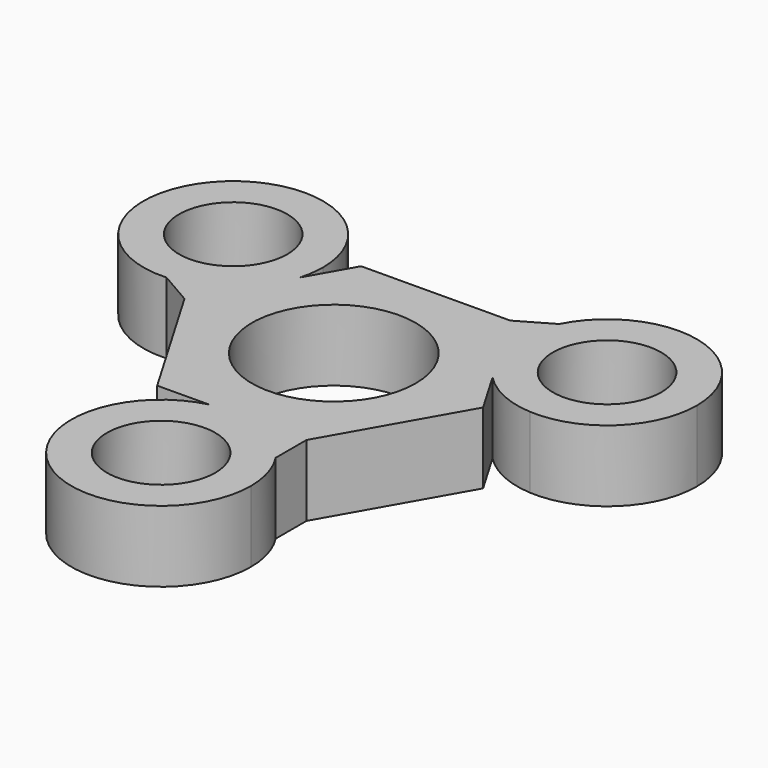
from build123d import *

# Parameters (mm, degrees)
F0_R     = 11.5
F0_R_2   = 7.6
F1_DEPTH = 10


with BuildPart() as f1:
    # F0 (on Top) → F1 (new body)
    with BuildSketch(Plane.XY):
        with BuildLine():
            Line((-20.8363977524, -0.1467132694), (-10.2911414579, -18.1182064116))
            Line((-10.2911414579, -18.1182064116), (-3.0747169622, -18.0673941146))
            ThreePointArc((-3.0747169622, -18.0673941146), (-0.0887658222, -17.6870110989), (2.9022456956, -18.0253091178))
            Line((2.9022456956, -18.0253091178), (10.5452562945, -17.9714931422))
            Line((10.5452562945, -17.9714931422), (20.8363977524, 0.1467132694))
            Line((20.8363977524, 0.1467132694), (17.1841807645, 6.3709140586))
            ThreePointArc((17.1841807645, 6.3709140586), (15.3617838398, 8.7666320924), (14.1592527593, 11.5260730593))
            Line((14.1592527593, 11.5260730593), (10.2911414579, 18.1182064116))
            Line((10.2911414579, 18.1182064116), (-10.5452562945, 17.9714931422))
            Line((-10.5452562945, 17.9714931422), (-14.1094638023, 11.696480056))
            ThreePointArc((-14.1094638023, 11.696480056), (-15.2730180176, 8.9203790065), (-17.0614984549, 6.4992360585))
            Line((-17.0614984549, 6.4992360585), (-20.8363977524, -0.1467132694))
        make_face()
        Circle(F0_R, mode=Mode.SUBTRACT)
        with BuildLine():
            Line((-25.5244283286, 2.5599224458), (-20.8363977524, -0.1467132694))
            Line((-20.8363977524, -0.1467132694), (-17.0614984549, 6.4992360585))
            ThreePointArc((-17.0614984549, 6.4992360585), (-20.9149223708, 3.7174238961), (-25.5244283286, 2.5599224458))
        make_face()
        with BuildLine():
            ThreePointArc((2.9022456956, -18.0253091178), (-0.0887658222, -17.6870110989), (-3.0747169622, -18.0673941146))
            Line((-3.0747169622, -18.0673941146), (2.9022456956, -18.0253091178))
        make_face()
        with BuildLine():
            Line((2.9022456956, -18.0253091178), (-3.0747169622, -18.0673941146))
            ThreePointArc((-3.0747169622, -18.0673941146), (-7.3105762444, -20.0227854043), (-10.5452562945, -23.3847645725))
            ThreePointArc((-10.5452562945, -23.3847645725), (-3.6049665079, -42.3741725912), (12.6069430182, -30.2936416119))
            ThreePointArc((12.6069430182, -30.2936416119), (12.0805309792, -26.688675104), (10.5452562945, -23.3847645725))
            ThreePointArc((10.5452562945, -23.3847645725), (7.2380776547, -19.9715660393), (2.9022456956, -18.0253091178))
        make_face()
        with Locations((0, -30.2936416119)):
            Circle(F0_R_2, mode=Mode.SUBTRACT)
        with BuildLine():
            ThreePointArc((-25.5244283286, 2.5599224458), (-20.9149223708, 3.7174238961), (-17.0614984549, 6.4992360585))
            Line((-17.0614984549, 6.4992360585), (-14.1094638023, 11.696480056))
            ThreePointArc((-14.1094638023, 11.696480056), (-13.7490359577, 13.404943732), (-13.6281201909, 15.146820806))
            ThreePointArc((-13.6281201909, 15.146820806), (-13.9705332359, 18.0650937199), (-14.979172034, 20.8248421267))
            ThreePointArc((-14.979172034, 20.8248421267), (-37.1529961269, 21.4502923151), (-25.5244283286, 2.5599224458))
        make_face()
        with Locations((-26.2350632091, 15.146820806)):
            Circle(F0_R_2, mode=Mode.SUBTRACT)
        with BuildLine():
            Line((-14.1094638023, 11.696480056), (-17.0614984549, 6.4992360585))
            ThreePointArc((-17.0614984549, 6.4992360585), (-15.2730180176, 8.9203790065), (-14.1094638023, 11.696480056))
        make_face()
        with BuildLine():
            Line((10.5452562945, -17.9714931422), (2.9022456956, -18.0253091178))
            ThreePointArc((2.9022456956, -18.0253091178), (7.2380776547, -19.9715660393), (10.5452562945, -23.3847645725))
            Line((10.5452562945, -23.3847645725), (10.5452562945, -17.9714931422))
        make_face()
        with BuildLine():
            Line((14.979172034, 20.8248421267), (10.2911414579, 18.1182064116))
            Line((10.2911414579, 18.1182064116), (14.1592527593, 11.5260730593))
            ThreePointArc((14.1592527593, 11.5260730593), (13.676844716, 16.2541421432), (14.979172034, 20.8248421267))
        make_face()
        with BuildLine():
            ThreePointArc((14.1592527593, 11.5260730593), (15.3617838398, 8.7666320924), (17.1841807645, 6.3709140586))
            Line((17.1841807645, 6.3709140586), (14.1592527593, 11.5260730593))
        make_face()
        with BuildLine():
            Line((14.1592527593, 11.5260730593), (17.1841807645, 6.3709140586))
            ThreePointArc((17.1841807645, 6.3709140586), (20.9955289368, 3.6802479582), (25.5244283286, 2.5599224458))
            ThreePointArc((25.5244283286, 2.5599224458), (34.8946266743, 5.9845627407), (38.8420062273, 15.146820806))
            ThreePointArc((38.8420062273, 15.146820806), (29.1533361231, 27.4113507791), (14.979172034, 20.8248421267))
            ThreePointArc((14.979172034, 20.8248421267), (13.676844716, 16.2541421432), (14.1592527593, 11.5260730593))
        make_face()
        with Locations((26.2350632091, 15.146820806)):
            Circle(F0_R_2, mode=Mode.SUBTRACT)
    extrude(amount=F1_DEPTH)


solid = f1.part
